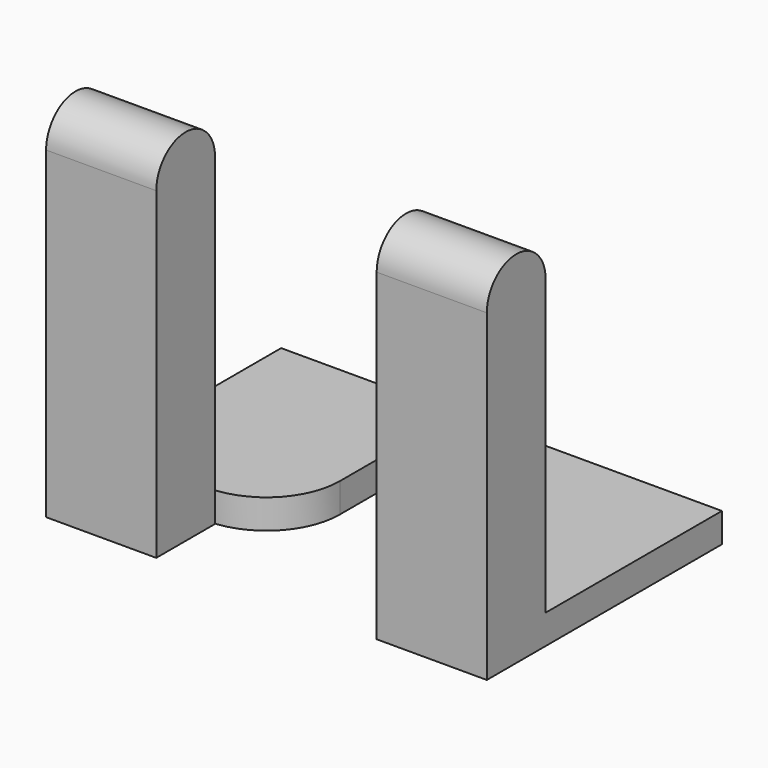
from build123d import *

# Parameters (mm, degrees)
F1_DEPTH = 5.08
F2_W     = 19.05
F2_H     = 12.7
F3_DEPTH = 50.8
F5_DEPTH = 19.05
F7_DEPTH = 19.05
F9_DEPTH = 5.08


with BuildPart() as f1:
    # F0 (on Top) → F1 (new body)
    with BuildSketch(Plane.XY):
        Polygon((0, 12.7), (0, 0), (19.05, 0), (76.2, 0), (76.2, 50.8), (0, 50.8), align=None)
    extrude(amount=F1_DEPTH)

    # F2 (on face) → F3 (join)
    with BuildSketch(Plane.XY.offset(5.08)):
        with Locations((9.525, 6.35)):
            Rectangle(F2_W, F2_H)
        with Locations((66.675, 6.35)):
            Rectangle(F2_W, F2_H)
    extrude(amount=F3_DEPTH)

    # F4 (on face) → F5 (join)
    with BuildSketch(Plane(origin=(0, 0, 0), x_dir=(0, -1, 0), z_dir=(-1, 0, 0))):
        with BuildLine():
            Line((-12.7, 55.88), (0, 55.88))
            ThreePointArc((0, 55.88), (-6.35, 62.23), (-12.7, 55.88))
        make_face()
        with BuildLine():
            ThreePointArc((-12.7, 55.88), (-6.35, 49.53), (0, 55.88))
            Line((0, 55.88), (-12.7, 55.88))
        make_face()
    extrude(amount=-F5_DEPTH)

    # F6 (on face) → F7 (join)
    with BuildSketch(Plane.YZ.offset(76.2)):
        with BuildLine():
            ThreePointArc((0, 55.88), (6.35, 49.53), (12.7, 55.88))
            Line((12.7, 55.88), (0, 55.88))
        make_face()
        with BuildLine():
            Line((0, 55.88), (12.7, 55.88))
            ThreePointArc((12.7, 55.88), (6.35, 62.23), (0, 55.88))
        make_face()
    extrude(amount=-F7_DEPTH)

    # F8 (on face) → F9 (cut)
    with BuildSketch(Plane.XY.offset(5.08)):
        with BuildLine():
            ThreePointArc((30.48, 25.4), (26.760256, 16.419744), (17.78, 12.7))
            Line((17.78, 12.7), (19.05, 12.7))
            Line((19.05, 12.7), (19.05, 0))
            Line((19.05, 0), (57.15, 0))
            Line((57.15, 0), (57.15, 12.7))
            Line((57.15, 12.7), (58.42, 12.7))
            ThreePointArc((58.42, 12.7), (49.439744, 16.419744), (45.72, 25.4))
            Line((45.72, 25.4), (45.72, 35.052))
            Line((45.72, 35.052), (30.48, 35.052))
            Line((30.48, 35.052), (30.48, 25.4))
        make_face()
    extrude(amount=-F9_DEPTH, mode=Mode.SUBTRACT)


solid = f1.part
